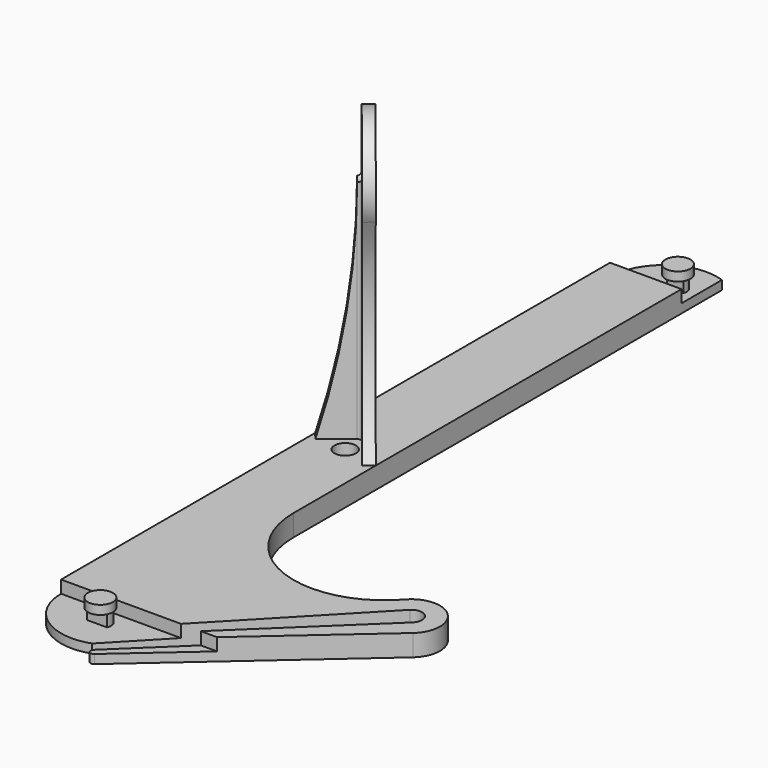
from build123d import *

# Parameters (mm, degrees)
PAD_DEPTH       = 6
SKETCH001_W     = 31.342523
SKETCH001_H     = 18.2690453429
SKETCH001_R     = 2.5
POCKET_DEPTH    = 3.5
SKETCH013_W     = 48.164109
SKETCH013_H     = 19.3260583096
SKETCH013_R     = 3.021402
POCKET008_DEPTH = 3.5
PAD001_DEPTH    = 80
POCKET009_DEPTH = 3
SKETCH015_R     = 3
SKETCH015_R_2   = 1.75
POCKET010_DEPTH = 80.3906309058
POCKET011_DEPTH = 5.5
POCKET012_DEPTH = 3.5
POCKET013_DEPTH = 3.5
SKETCH022_R     = 3.5
PAD002_DEPTH    = 2.5
SKETCH023_R     = 3.5
PAD003_DEPTH    = 2.5
SKETCH024_R     = 3
POCKET014_DEPTH = 6.001


with BuildPart() as part:
    # Sketch → Pad (new body)
    with BuildSketch(Plane.XY):
        with BuildLine():
            Line((148.7359710531, -99.0646793429), (148.7359710531, 92.9353206571))
            ThreePointArc((168.7359710531, 107.0774562808), (155.0757170152, 105.182769371), (148.7359710531, 92.9353206571))
            Line((168.7359710531, -42.6963517772), (168.7359710531, 107.0774562808))
            ThreePointArc((168.7359710531, -42.6963517772), (185.2022873789, -66.5007048599), (213.2847541452, -59.4891530095))
            ThreePointArc((224.5749857013, -70.7793845656), (224.9509601574, -59.1131785534), (213.2847541452, -59.4891530095))
            Line((172.271504959, -116.7423812201), (224.5749857013, -70.7793845656))
            ThreePointArc((170.8572913966, -115.3281676577), (170.8572913966, -116.7423812201), (172.271504959, -116.7423812201))
            Line((170.8572913966, -115.3281676577), (221.4154262515, -66.8913531464))
            ThreePointArc((221.4154262515, -66.8913531464), (221.4154262515, -62.6487124593), (217.1727855643, -62.6487124593))
            Line((168.7359710531, -113.2068473142), (217.1727855643, -62.6487124593))
            ThreePointArc((148.7359710531, -99.0646793429), (155.0757038094, -111.3121510664), (168.7359710531, -113.2068473142))
        make_face()
    extrude(amount=PAD_DEPTH)

    # Sketch001 → Pocket (cut)
    with BuildSketch(Plane.XY.offset(6)):
        with Locations((159.4964165, 102.0698433285)):
            Rectangle(SKETCH001_W, SKETCH001_H)
        with Locations((163.7359710531, 97.9353206571)):
            Circle(SKETCH001_R, mode=Mode.SUBTRACT)
    extrude(amount=-POCKET_DEPTH, mode=Mode.SUBTRACT)

    # Sketch013 → Pocket008 (cut)
    with BuildSketch(Plane.XY.offset(6)):
        with Locations((169.3588635, -108.7277408452)):
            Rectangle(SKETCH013_W, SKETCH013_H)
        with Locations((163.7359710531, -104.0647116904)):
            Circle(SKETCH013_R, mode=Mode.SUBTRACT)
    extrude(amount=-POCKET008_DEPTH, mode=Mode.SUBTRACT)

    # Sketch014 → Pad001 (new body)
    with BuildSketch(Plane.XY.offset(6)):
        with BuildLine():
            Line((148.7359710531, 5.9602104844), (155.9970967848, -3.0092063605))
            ThreePointArc((155.849066174, -4.4156511472), (156.2143657321, -3.7430868972), (155.9970967848, -3.0092063605))
            Line((148.7359710531, -10.174005219), (155.849066174, -4.4156511472))
            Line((148.7359710531, -10.174005219), (150.6235923171, -12.5057183154))
            Line((150.6235923171, -12.5057183154), (157.7366874381, -6.7473642436))
            ThreePointArc((159.1431322249, -6.8953948544), (158.4705679748, -6.5300952963), (157.7366874381, -6.7473642436))
            Line((159.1431322249, -6.8953948544), (166.4042579566, -15.8648116991))
            Line((166.4042579566, -15.8648116991), (168.7359710531, -13.9771904352))
            Line((151.0676841499, 7.8478317492), (168.7359710531, -13.9771904352))
            Line((148.7359710531, 5.9602104844), (151.0676841499, 7.8478317492))
        make_face()
    extrude(amount=PAD001_DEPTH)

    # Sketch016 → Pocket009 (cut)
    with BuildSketch(Plane(origin=(95.0976832559, 76.9856331596, 0), x_dir=(-0.629207088, 0.7772376988, 0), z_dir=(0.7772376988, 0.629207088, 0))):
        with BuildLine():
            ThreePointArc((-90.8226866435, 64.9598793146), (-102.9933476305, 86), (-115.1640086175, 64.9598793146))
            ThreePointArc((-117.0334683159, 6), (-107.9048310085, 35.2201328201), (-115.1640086175, 64.9598793146))
            Line((-117.0334683159, 6), (-129.946838, 10.190964))
            Line((-129.946838, 10.190964), (-129.946838, 98.716408))
            Line((-129.946838, 98.716408), (-69.304048, 98.716408))
            Line((-69.304048, 98.716408), (-45.866948, 9.880296))
            Line((-45.866948, 9.880296), (-88.9532269451, 6))
            ThreePointArc((-90.8226866435, 64.9598793146), (-99.1328607178, 35.18680854), (-88.9532269451, 6))
        make_face()
    extrude(amount=-POCKET009_DEPTH, mode=Mode.SUBTRACT)

    # Sketch015 → Pocket010 (cut, through all)
    with BuildSketch(Plane(origin=(95.0976832559, 76.9856331596, 0), x_dir=(-0.629207088, 0.7772376988, 0), z_dir=(0.7772376988, 0.629207088, 0))):
        with Locations((-102.9933476305, 71.9598793146)):
            Circle(SKETCH015_R)
        with Locations((-96.2758332092, 78.6773937359)):
            Circle(SKETCH015_R_2)
        with Locations((-108.65020188, 77.6167335641)):
            Circle(SKETCH015_R_2)
        with Locations((-109.7108620518, 65.2423648933)):
            Circle(SKETCH015_R_2)
        with Locations((-97.336493381, 66.3030250651)):
            Circle(SKETCH015_R_2)
    extrude(amount=-POCKET010_DEPTH, mode=Mode.SUBTRACT)

    # Sketch017 → Pocket011 (cut, symmetric)
    with BuildSketch(Plane(origin=(63.8603337123, -78.8844559543, 0), x_dir=(-0.7772376988, -0.629207088, 0), z_dir=(-0.629207088, 0.7772376988, 0))):
        with BuildLine():
            ThreePointArc((-118.353410552, 69.3618031032), (-116.0536600062, 37.3521449631), (-109.2016476719, 6.0000000001))
            Line((-98.802281, 97.315555), (-109.2016476718, 6))
            Line((-119.353410552, 97.315555), (-98.802281, 97.315555))
            Line((-119.353410552, 73.6181917099), (-119.353410552, 97.315555))
            Line((-118.353410552, 69.3618031032), (-119.353410552, 73.6181917099))
        make_face()
    extrude(amount=POCKET011_DEPTH, both=True, mode=Mode.SUBTRACT)

    # Sketch020 → Pocket012 (cut)
    with BuildSketch(Plane.XY.offset(6)):
        with BuildLine():
            ThreePointArc((166.0456698843, 98.892029238), (163.7359710531, 100.4353206571), (161.4262722218, 98.892029238))
            Line((161.4262722218, 98.892029238), (166.0456698843, 98.892029238))
        make_face()
        with BuildLine():
            ThreePointArc((161.4262722218, 96.9786120762), (163.7359710531, 95.4353206571), (166.0456698843, 96.9786120762))
            Line((161.4262722218, 96.9786120762), (166.0456698843, 96.9786120762))
        make_face()
    extrude(amount=-POCKET012_DEPTH, mode=Mode.SUBTRACT)

    # Sketch021 → Pocket013 (cut)
    with BuildSketch(Plane.XY.offset(6)):
        with BuildLine():
            ThreePointArc((166.5273825204, -102.9084712025), (163.7359710531, -101.0433096904), (160.9445595858, -102.9084712025))
            Line((160.9445595858, -102.9084712025), (166.5273825204, -102.9084712025))
        make_face()
        with BuildLine():
            ThreePointArc((160.9445595858, -105.2209521783), (163.7359710531, -107.0861136904), (166.5273825204, -105.2209521783))
            Line((160.9445595858, -105.2209521783), (166.5273825204, -105.2209521783))
        make_face()
    extrude(amount=-POCKET013_DEPTH, mode=Mode.SUBTRACT)

    # Sketch022 → Pad002 (new body)
    with BuildSketch(Plane.XY.offset(6)):
        with Locations((163.7359710531, 97.9353206571)):
            Circle(SKETCH022_R)
    extrude(amount=PAD002_DEPTH)

    # Sketch023 → Pad003 (new body)
    with BuildSketch(Plane.XY.offset(6)):
        with Locations((163.7359710531, -104.0647116904)):
            Circle(SKETCH023_R)
    extrude(amount=PAD003_DEPTH)

    # Sketch024 → Pocket014 (cut, through all)
    with BuildSketch(Plane.XY.offset(6)):
        with Locations((158.7359710531, -12.174005219)):
            Circle(SKETCH024_R)
    extrude(amount=-POCKET014_DEPTH, mode=Mode.SUBTRACT)


solid = part.part
